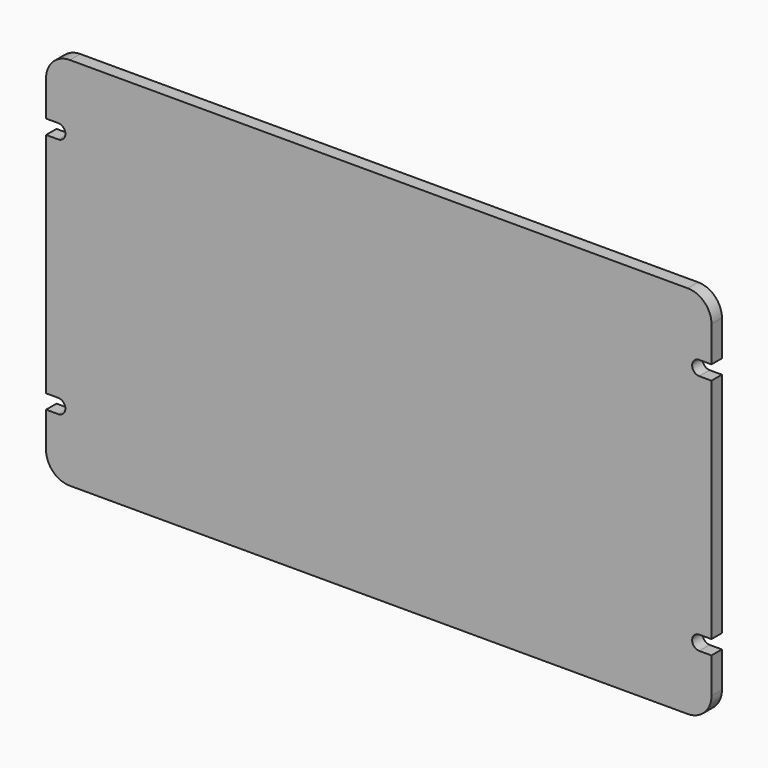
from build123d import *

# Parameters (mm, degrees)
F1_DEPTH = 2.794


with BuildPart() as f1:
    # F0 (on Front) → F1 (new body)
    with BuildSketch(Plane.XZ):
        with BuildLine():
            ThreePointArc((71.247, 35.052), (69.759102, 38.644102), (66.167, 40.132))
            Line((66.167, 40.132), (-66.167, 40.132))
            ThreePointArc((-66.167, 40.132), (-69.759102, 38.644102), (-71.247, 35.052))
            Line((-71.247, 35.052), (-71.247, 27.432))
            Line((-71.247, 27.432), (-68.6435, 27.432))
            ThreePointArc((-68.6435, 27.432), (-67.1068, 25.8953), (-68.6435, 24.3586))
            Line((-68.6435, 24.3586), (-71.247, 24.3586))
            Line((-71.247, 24.3586), (-71.247, -24.3586))
            Line((-71.247, -24.3586), (-68.6435, -24.3586))
            ThreePointArc((-68.6435, -24.3586), (-67.1068, -25.8953), (-68.6435, -27.432))
            Line((-68.6435, -27.432), (-71.247, -27.432))
            Line((-71.247, -27.432), (-71.247, -35.052))
            ThreePointArc((-71.247, -35.052), (-69.759102, -38.644102), (-66.167, -40.132))
            Line((-66.167, -40.132), (66.167, -40.132))
            ThreePointArc((66.167, -40.132), (69.759102, -38.644102), (71.247, -35.052))
            Line((71.247, -35.052), (71.247, -27.432))
            Line((71.247, -27.432), (68.6435, -27.432))
            ThreePointArc((68.6435, -27.432), (67.1068, -25.8953), (68.6435, -24.3586))
            Line((68.6435, -24.3586), (71.247, -24.3586))
            Line((71.247, -24.3586), (71.247, 24.3586))
            Line((71.247, 24.3586), (68.6435, 24.3586))
            ThreePointArc((68.6435, 24.3586), (67.1068, 25.8953), (68.6435, 27.432))
            Line((68.6435, 27.432), (71.247, 27.432))
            Line((71.247, 27.432), (71.247, 35.052))
        make_face()
    extrude(amount=F1_DEPTH)


solid = f1.part
